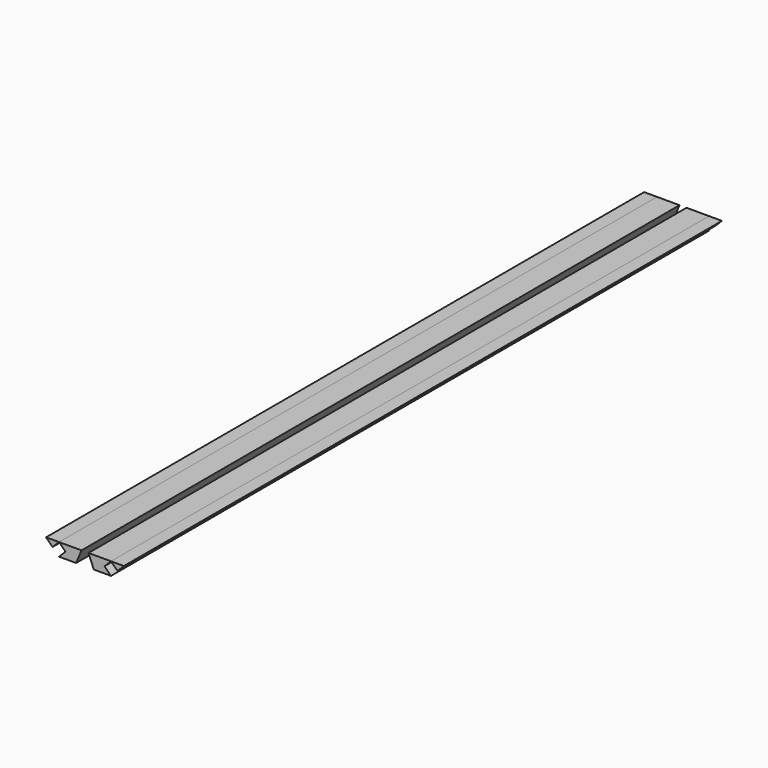
from build123d import *

# Parameters (mm, degrees)
F1_DEPTH = 1104.9


with BuildPart() as f1:
    # F0 (on Front) → F1 (new body)
    with BuildSketch(Plane.XZ):
        Polygon((28.575, 9.525), (19.05, 0), (44.45, 0), (52.340768, 19.05), (19.05, 19.05), align=None)
        Polygon((9.525, 9.525), (19.05, 19.05), (0, 19.05), align=None)
        Polygon((105.466322, 9.525), (114.991322, 19.05), (95.941322, 19.05), align=None)
        Polygon((86.416322, 9.525), (95.941322, 19.05), (62.650554, 19.05), (70.541322, 0), (95.941322, 0), align=None)
    extrude(amount=F1_DEPTH)


solid = f1.part
